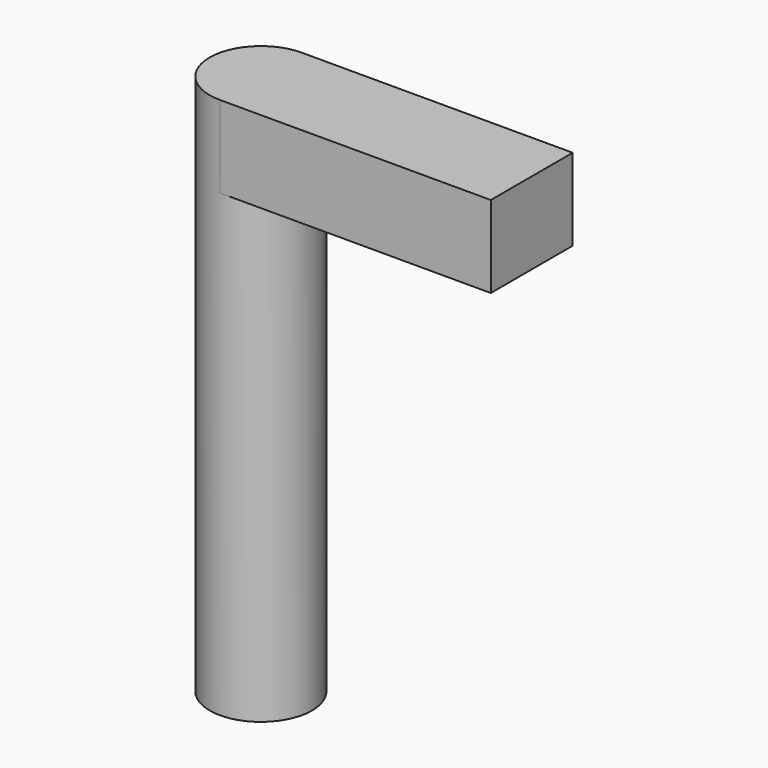
from build123d import *

# Parameters (mm, degrees)
F0_R     = 2.4
F1_DEPTH = 25.4
F2_W     = 4.8
F2_H     = 3.839892
F3_DEPTH = 12.7


with BuildPart() as f1:
    # F0 (on Top) → F1 (new body)
    with BuildSketch(Plane.XY):
        Circle(F0_R)
    extrude(amount=F1_DEPTH)

    # F2 (on Right) → F3 (join)
    with BuildSketch(Plane.YZ):
        with Locations((0, 23.480054)):
            Rectangle(F2_W, F2_H)
    extrude(amount=F3_DEPTH)


solid = f1.part
